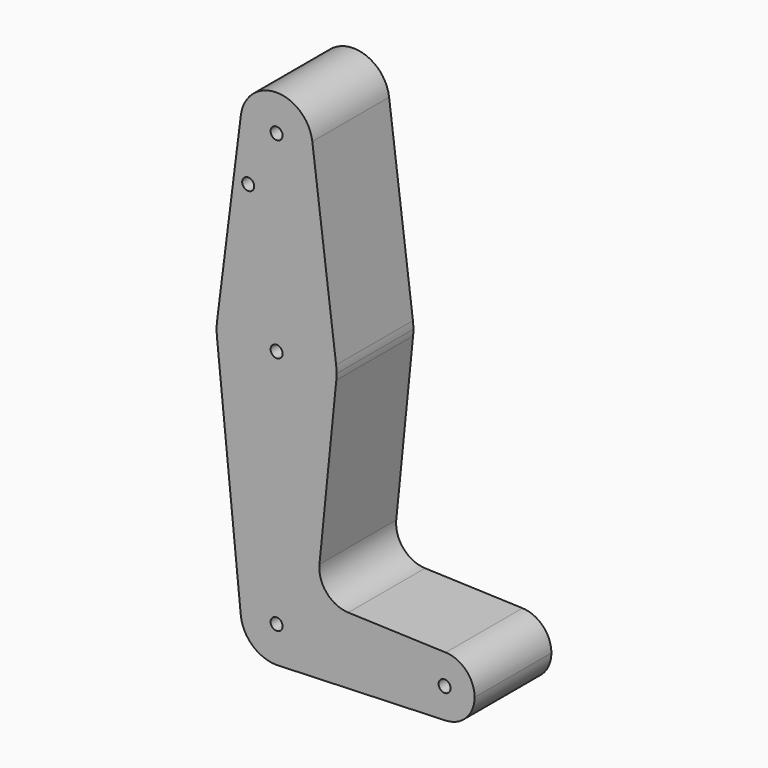
from build123d import *

# Parameters (mm, degrees)
F0_R     = 1.5875
F1_DEPTH = 25.4


with BuildPart() as f1:
    # F0 (on Front) → F1 (new body)
    with BuildSketch(Plane.XZ):
        with BuildLine():
            ThreePointArc((-9.450293, 115.490625), (-0.596483, 104.793695), (9.525, 114.3))
            ThreePointArc((9.525, 114.3), (9.506305, 114.896483), (9.450293, 115.490625))
            ThreePointArc((9.450293, 115.490625), (0, 123.825), (-9.450293, 115.490625))
        make_face()
        with Locations((0, 114.3)):
            Circle(F0_R, mode=Mode.SUBTRACT)
        with BuildLine():
            ThreePointArc((9.450293, 115.490625), (9.506305, 114.896483), (9.525, 114.3))
            ThreePointArc((9.525, 114.3), (-0.596483, 104.793695), (-9.450293, 115.490625))
            Line((-9.450293, 115.490625), (-15.750488, 65.484375))
            ThreePointArc((-15.750488, 65.484375), (0, 79.375), (15.750488, 65.484375))
            Line((15.750488, 65.484375), (9.450293, 115.490625))
        make_face()
        with Locations((-7.514715, 100.0252)):
            Circle(F0_R, mode=Mode.SUBTRACT)
        with BuildLine():
            ThreePointArc((15.875, 63.5), (15.843841, 64.494139), (15.750488, 65.484375))
            ThreePointArc((15.750488, 65.484375), (0, 79.375), (-15.750488, 65.484375))
            ThreePointArc((-15.750488, 65.484375), (-15.873744, 63.699705), (-15.795426, 61.9125))
            ThreePointArc((-15.795426, 61.9125), (0, 47.625), (15.795426, 61.9125))
            ThreePointArc((15.795426, 61.9125), (15.855094, 62.705253), (15.875, 63.5))
        make_face()
        with Locations((0, 63.5)):
            Circle(F0_R, mode=Mode.SUBTRACT)
        with BuildLine():
            ThreePointArc((15.795426, 61.9125), (0, 47.625), (-15.795426, 61.9125))
            Line((-15.795426, 61.9125), (-9.477255, -0.9525))
            ThreePointArc((-9.477255, -0.9525), (-7.063929, 6.389564), (0, 9.525))
            ThreePointArc((0, 9.525), (0.338886, 9.51897), (0.677344, 9.500886))
            ThreePointArc((0.677344, 9.500886), (6.970557, 6.491299), (9.525, 0))
            ThreePointArc((9.525, 0), (9.513056, -0.476848), (9.477255, -0.9525))
            ThreePointArc((9.477255, -0.9525), (6.636844, -6.832125), (0.677344, -9.500886))
            Line((0.677344, -9.500886), (44.732405, -7.932475))
            ThreePointArc((44.732405, -7.932475), (36.5125, 0), (44.732405, 7.932475))
            Line((44.732405, 7.932475), (18.968328, 8.849706))
            ThreePointArc((18.968328, 8.849706), (13.261204, 11.567463), (11.340836, 17.589892))
            Line((11.340836, 17.589892), (15.795426, 61.9125))
        make_face()
        with BuildLine():
            ThreePointArc((0, 9.525), (-7.063929, 6.389564), (-9.477255, -0.9525))
            ThreePointArc((-9.477255, -0.9525), (-6.389564, -7.063929), (0, -9.525))
            Line((0, -9.525), (0.677344, -9.500886))
            ThreePointArc((0.677344, -9.500886), (6.636844, -6.832125), (9.477255, -0.9525))
            ThreePointArc((9.477255, -0.9525), (9.513056, -0.476848), (9.525, 0))
            ThreePointArc((9.525, 0), (6.970557, 6.491299), (0.677344, 9.500886))
            Line((0.677344, 9.500886), (0, 9.525))
        make_face()
        Circle(F0_R, mode=Mode.SUBTRACT)
        with BuildLine():
            Line((0.677344, -9.500886), (0, -9.525))
            ThreePointArc((0, -9.525), (0.338886, -9.51897), (0.677344, -9.500886))
        make_face()
        with BuildLine():
            ThreePointArc((52.3875, 0), (50.161633, 5.51191), (44.732405, 7.932475))
            ThreePointArc((44.732405, 7.932475), (36.5125, 0), (44.732405, -7.932475))
            ThreePointArc((44.732405, -7.932475), (50.161633, -5.51191), (52.3875, 0))
        make_face()
        with Locations((44.45, 0)):
            Circle(F0_R, mode=Mode.SUBTRACT)
    extrude(amount=F1_DEPTH)


solid = f1.part
